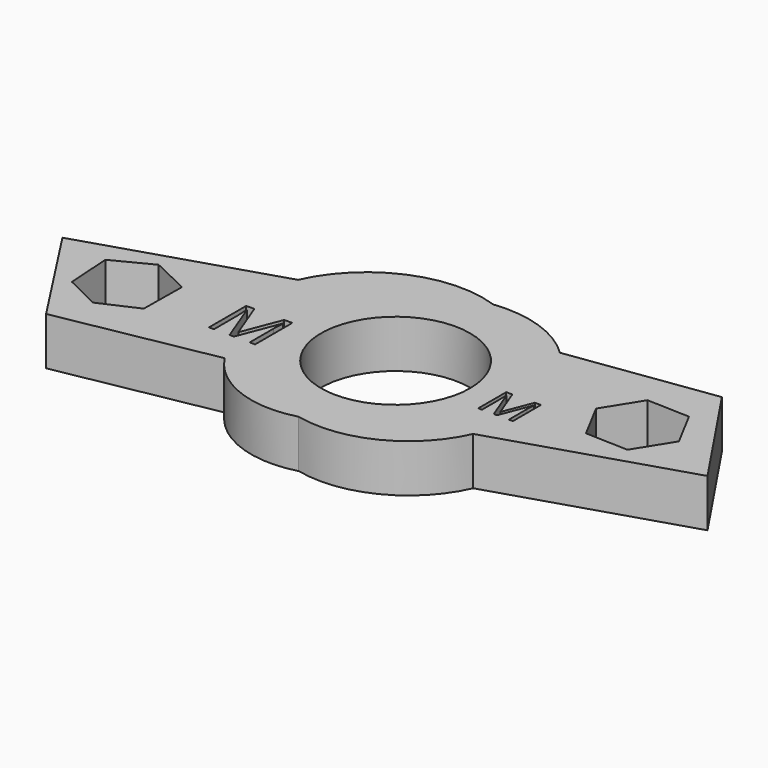
from build123d import *

# Parameters (mm, degrees)
F0_R     = 10.9
F1_DEPTH = 7


with BuildPart() as f1:
    # F0 (on Top) → F1 (new body)
    with BuildSketch(Plane.XY):
        with BuildLine():
            ThreePointArc((13.4171988449, 13.2763387254), (7.22267833, 17.0706517665), (0, 17.8464182291))
            ThreePointArc((0, 17.8464182291), (-12.3934261668, 17.3856939079), (-21.212298119, 8.6657869967))
            Line((-21.212298119, 8.6657869967), (-48.7341698839, 0))
            Line((-48.7341698839, 0), (-38.4059213102, -15.8993322402))
            Line((-38.4059213102, -15.8993322402), (-15.6340252481, -11.698395744))
            ThreePointArc((-15.6340252481, -11.698395744), (-8.8082583297, -17.2836407973), (0, -17.731571068))
            ThreePointArc((0, -17.731571068), (10.7516192675, -16.4332499903), (18.2289933575, -8.5992324252))
            Line((18.2289933575, -8.5992324252), (45.6239394844, 0))
            Line((45.6239394844, 0), (34.7210466862, 16.2664335221))
            Line((34.7210466862, 16.2664335221), (13.4171988449, 13.2763387254))
        make_face()
        Polygon((-35.9599349838, 1.6379494826), (-30.4309182695, -1.0068120022), (-30.5166446126, -7.9062794449), (-35.9715961453, -10.350971025), (-41.0530541111, -7.8694990471), (-41.4976999164, -1.2092351681), align=None, mode=Mode.SUBTRACT)
        with BuildLine():
            Line((-18.1506583849, -6.8692867644), (-18.7886910965, -6.8692867644))
            Line((-18.7886910965, -6.8692867644), (-21.0993235802, -0.8318276941))
            Line((-21.0993235802, -0.8318276941), (-21.1365918461, -0.8318276941))
            add(Edge.make_bspline(
                [(-21.1365918461, -0.8318276941), (-21.0709996982, -1.5488691294), (-21.0709996982, -2.5372235402)],
                knots=[0, 0, 0, 1, 1, 1], degree=2))
            Line((-21.0709996982, -2.5372235402), (-21.0709996982, -6.8692867644))
            Line((-21.0709996982, -6.8692867644), (-21.8029484398, -6.8692867644))
            Line((-21.8029484398, -6.8692867644), (-21.8029484398, -0.0581384948))
            Line((-21.8029484398, -0.0581384948), (-20.6103639321, -0.0581384948))
            Line((-20.6103639321, -0.0581384948), (-18.4532767037, -5.6767022567))
            Line((-18.4532767037, -5.6767022567), (-18.4160084379, -5.6767022567))
            Line((-18.4160084379, -5.6767022567), (-16.2410324419, -0.0581384948))
            Line((-16.2410324419, -0.0581384948), (-15.057392318, -0.0581384948))
            Line((-15.057392318, -0.0581384948), (-15.057392318, -6.8692867644))
            Line((-15.057392318, -6.8692867644), (-15.848970285, -6.8692867644))
            Line((-15.848970285, -6.8692867644), (-15.848970285, -2.480575776))
            add(Edge.make_bspline(
                [(-15.848970285, -2.480575776), (-15.848970285, -1.7262660749), (-15.7833781371, -0.8407720779)],
                knots=[0, 0, 0, 1, 1, 1], degree=2))
            Line((-15.7833781371, -0.8407720779), (-15.820646403, -0.8407720779))
            Line((-15.820646403, -0.8407720779), (-18.1506583849, -6.8692867644))
        make_face(mode=Mode.SUBTRACT)
        Circle(F0_R, mode=Mode.SUBTRACT)
        with BuildLine():
            Line((17.4662758568, -3.2931279857), (16.9864883353, -3.2931279857))
            Line((16.9864883353, -3.2931279857), (15.2489400681, 1.2469174867))
            Line((15.2489400681, 1.2469174867), (15.220915096, 1.2469174867))
            add(Edge.make_bspline(
                [(15.220915096, 1.2469174867), (15.2702390468, 0.7077170244), (15.2702390468, -0.0355052344)],
                knots=[0, 0, 0, 1, 1, 1], degree=2))
            Line((15.2702390468, -0.0355052344), (15.2702390468, -3.2931279857))
            Line((15.2702390468, -3.2931279857), (14.7198285957, -3.2931279857))
            Line((14.7198285957, -3.2931279857), (14.7198285957, 1.8287159065))
            Line((14.7198285957, 1.8287159065), (15.6166277014, 1.8287159065))
            Line((15.6166277014, 1.8287159065), (17.2387130837, -2.39632888))
            Line((17.2387130837, -2.39632888), (17.2667380558, -2.39632888))
            Line((17.2667380558, -2.39632888), (18.9022754247, 1.8287159065))
            Line((18.9022754247, 1.8287159065), (19.7923485371, 1.8287159065))
            Line((19.7923485371, 1.8287159065), (19.7923485371, -3.2931279857))
            Line((19.7923485371, -3.2931279857), (19.1970981307, -3.2931279857))
            Line((19.1970981307, -3.2931279857), (19.1970981307, 0.0070927231))
            add(Edge.make_bspline(
                [(19.1970981307, 0.0070927231), (19.1970981307, 0.5743181575), (19.2464220815, 1.2401914934)],
                knots=[0, 0, 0, 1, 1, 1], degree=2))
            Line((19.2464220815, 1.2401914934), (19.2183971095, 1.2401914934))
            Line((19.2183971095, 1.2401914934), (17.4662758568, -3.2931279857))
        make_face(mode=Mode.SUBTRACT)
        Polygon((28.5678132643, 10.3558819706), (34.7995595381, 10.142953863), (37.7310315247, 4.6396392261), (34.4307572375, -0.6507473031), (28.1990109637, -0.4378191955), (25.2675389771, 5.0654954413), align=None, mode=Mode.SUBTRACT)
    extrude(amount=F1_DEPTH)


solid = f1.part
